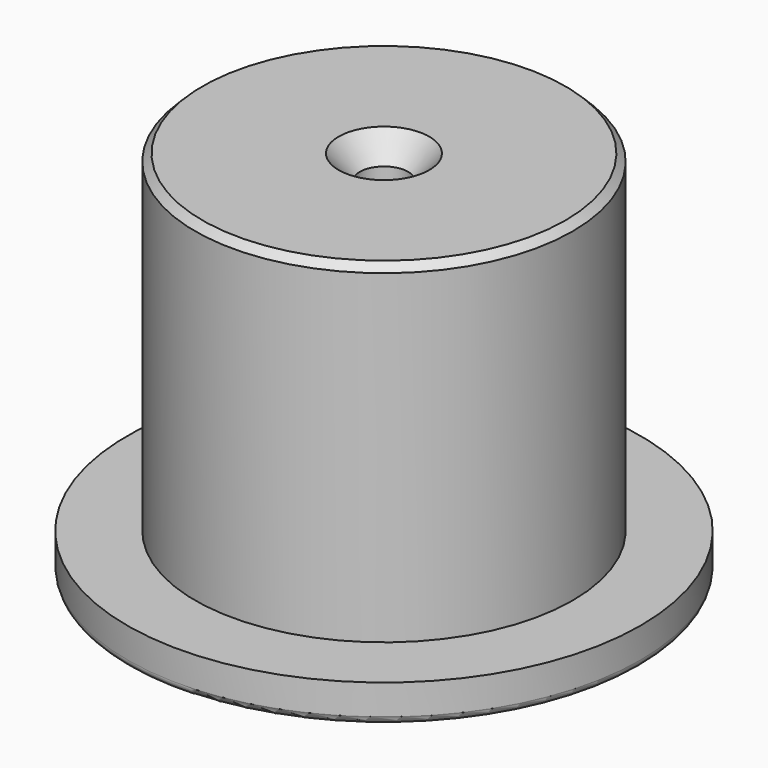
from build123d import *

# Parameters (mm, degrees)
F0_R           = 26.9875
F0_R_2         = 19.84375
F1_DEPTH       = 3.9624
F2_DEPTH       = 38.8874
F3_R           = 0.7874
F4_SIZE2       = 0.762
F4_SIZE        = 0.762
F6_D           = 5.1054
F6_DEPTH       = 25.4
F6_CSINK_D     = 9.525
F6_CSINK_ANGLE = 82
F6_TIP         = 1.5338169022


with BuildPart() as f1:
    # F0 (on Top) → F1 (new body)
    with BuildSketch(Plane.XY):
        Circle(F0_R)
        Circle(F0_R_2, mode=Mode.SUBTRACT)
    extrude(amount=F1_DEPTH)

    # F0 (on Top) → F2 (join)
    with BuildSketch(Plane.XY):
        Circle(F0_R_2)
    extrude(amount=F2_DEPTH)

    # F3
    f3_edges = [f1.edges().sort_by_distance(p)[0] for p in [
        (-26.9875, 0, 0),
    ]]
    fillet(f3_edges, radius=F3_R)

    # F4
    f4_edges = [f1.edges().sort_by_distance(p)[0] for p in [
        (-19.84375, 0, 38.8874),
    ]]
    chamfer(f4_edges, length=F4_SIZE, length2=F4_SIZE2)

    # F6
    with Locations(Plane.XY.offset(38.8874)):
        with Locations((0, 0)):
            CounterSinkHole(F6_D / 2, F6_CSINK_D / 2, depth=F6_DEPTH, counter_sink_angle=F6_CSINK_ANGLE)
            with Locations((0, 0, -(F6_DEPTH + F6_TIP / 2))):  # 118° drill point
                Cone(0, F6_D / 2, F6_TIP, mode=Mode.SUBTRACT)


solid = f1.part
